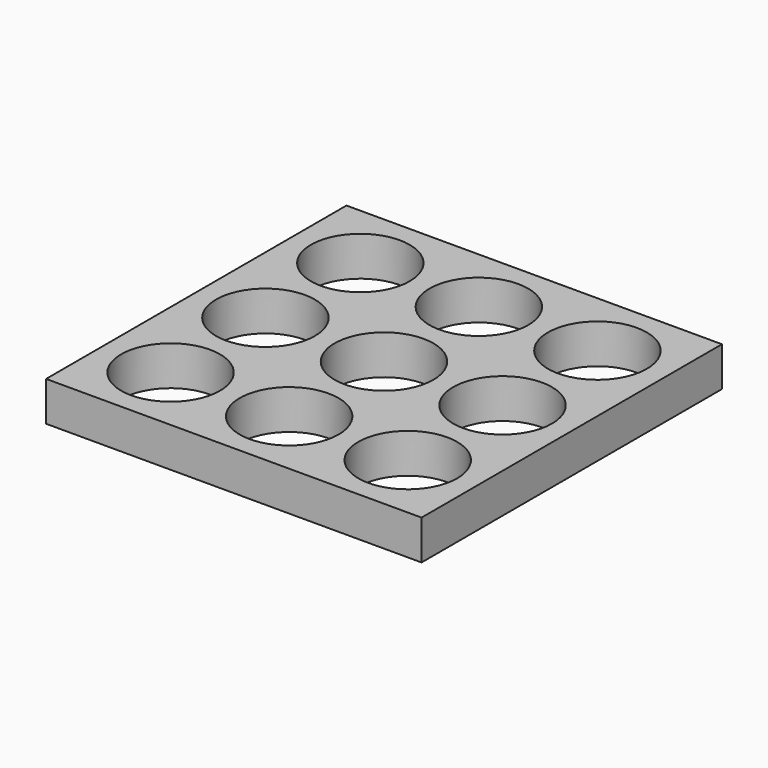
from build123d import *

# Parameters (mm, degrees)
F0_W     = 95
F0_H     = 95
F0_R     = 12.5
F1_DEPTH = 10


with BuildPart() as f1:
    # F0 (on Top) → F1 (new body)
    with BuildSketch(Plane.XY):
        Rectangle(F0_W, F0_H)
        with Locations((-30, -30)):
            Circle(F0_R, mode=Mode.SUBTRACT)
        with Locations((0, -30)):
            Circle(F0_R, mode=Mode.SUBTRACT)
        with Locations((30, -30)):
            Circle(F0_R, mode=Mode.SUBTRACT)
        with Locations((-30, 0)):
            Circle(F0_R, mode=Mode.SUBTRACT)
        with Locations((-30, 30)):
            Circle(F0_R, mode=Mode.SUBTRACT)
        Circle(F0_R, mode=Mode.SUBTRACT)
        with Locations((30, 0)):
            Circle(F0_R, mode=Mode.SUBTRACT)
        with Locations((0, 30)):
            Circle(F0_R, mode=Mode.SUBTRACT)
        with Locations((30, 30)):
            Circle(F0_R, mode=Mode.SUBTRACT)
    extrude(amount=F1_DEPTH)


solid = f1.part
